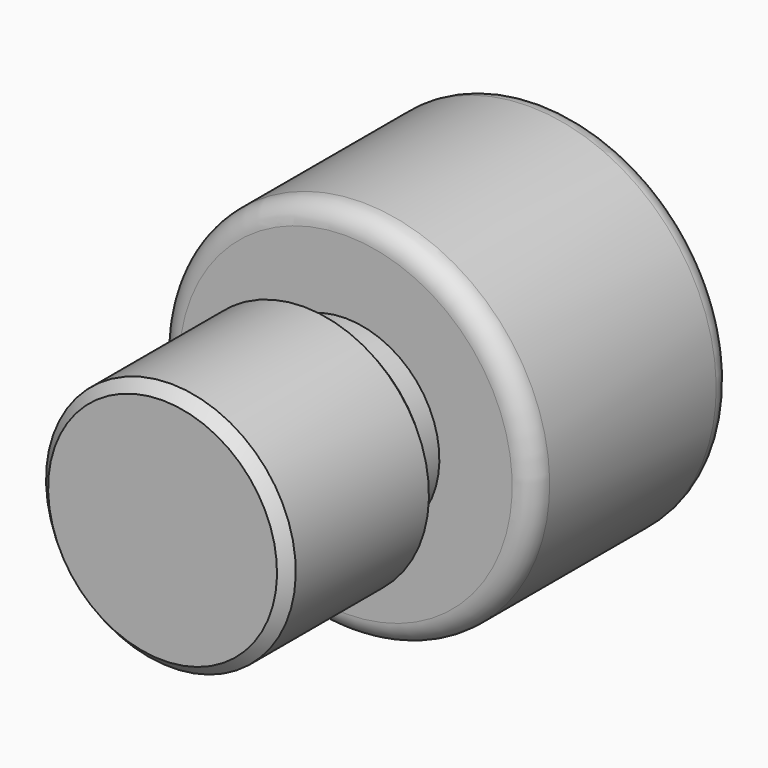
from build123d import *

# Parameters (mm, degrees)
F2_SIZE = 0.5
F3_R    = 1


with BuildPart() as f1:
    # F0 (on Right) → F1 (revolve)
    with BuildSketch(Plane.YZ):
        Polygon((0, 6), (0, 0), (23, 0), (23, 9), (11, 9), (11, 4.5), (9, 4.5), (9, 6), align=None)
    revolve(axis=Axis((0, 11.5, 0), (0, -1, 0)))

    # F2
    f2_edges = [f1.edges().sort_by_distance(p)[0] for p in [
        (0, 0, -6),
        (0, 9, -6),
    ]]
    chamfer(f2_edges, length=F2_SIZE)

    # F3
    f3_edges = [f1.edges().sort_by_distance(p)[0] for p in [
        (0, 11, -9),
        (0, 23, -9),
    ]]
    fillet(f3_edges, radius=F3_R)


solid = f1.part
